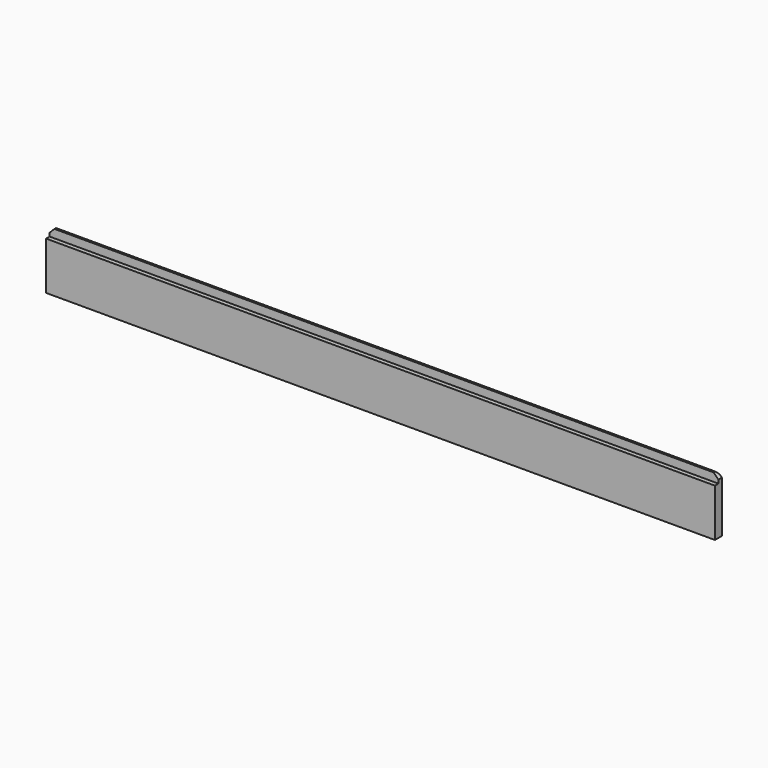
from build123d import *

# Parameters (mm, degrees)
F0_W     = 1370
F0_H     = 115
F1_DEPTH = 9
F2_W     = 1370
F2_H     = 98
F3_DEPTH = 9
F4_SIZE  = 5
F5_SIZE  = 10
F6_SIZE  = 10


with BuildPart() as f1:
    # F0 (on Front) → F1 (new body)
    with BuildSketch(Plane.XZ):
        Rectangle(F0_W, F0_H)
    extrude(amount=F1_DEPTH)

    # F2 (on face) → F3 (join)
    with BuildSketch(Plane.XZ.offset(9)):
        with Locations((0, -8.5)):
            Rectangle(F2_W, F2_H)
    extrude(amount=F3_DEPTH)

    # F4
    f4_edges = [f1.edges().sort_by_distance(p)[0] for p in [
        (0, 0, 57.5),
    ]]
    chamfer(f4_edges, length=F4_SIZE)

    # F5
    f5_edges = [f1.edges().sort_by_distance(p)[0] for p in [
        (685, -7, 57.5),
    ]]
    chamfer(f5_edges, length=F5_SIZE)

    # F6
    f6_edges = [f1.edges().sort_by_distance(p)[0] for p in [
        (-685, -7, 57.5),
    ]]
    chamfer(f6_edges, length=F6_SIZE)


solid = f1.part
